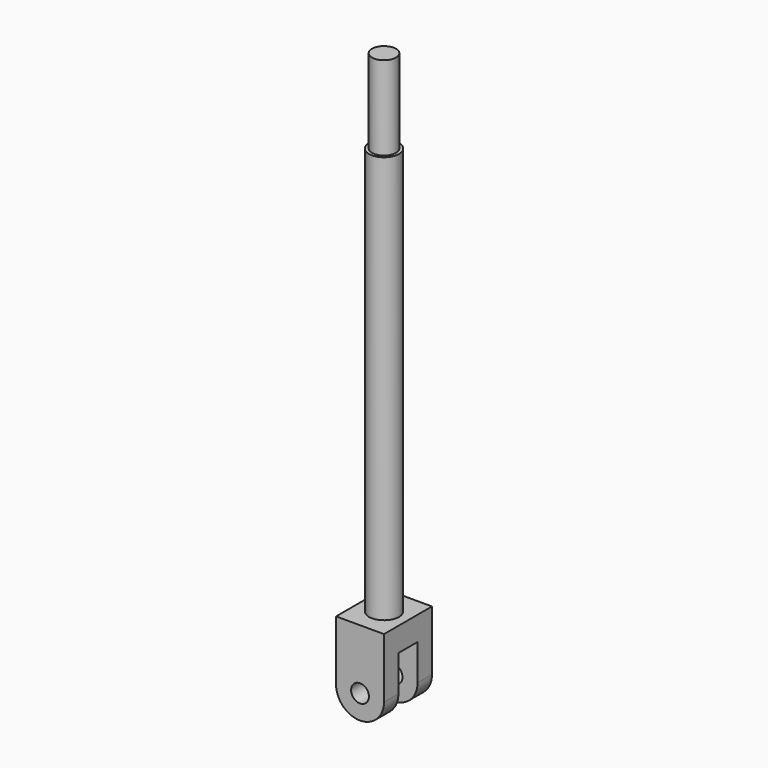
from build123d import *

# Parameters (mm, degrees)
F0_R     = 3.96875
F1_DEPTH = 107.95
F2_R     = 3.175
F3_DEPTH = 22.225
F4_R     = 2.361553
F5_DEPTH = 7.9375
F7_DEPTH = 3.175


with BuildPart() as f1:
    # F0 (on Top) → F1 (new body)
    with BuildSketch(Plane.XY):
        Circle(F0_R)
    extrude(amount=F1_DEPTH)

    # F2 (on face) → F3 (join)
    with BuildSketch(Plane.XY.offset(107.95)):
        Circle(F2_R)
    extrude(amount=F3_DEPTH)

    # F4 (on Front) → F5 (join, symmetric)
    with BuildSketch(Plane.XZ):
        with BuildLine():
            Line((3.96875, 0), (-3.96875, 0))
            Line((-3.96875, 0), (-6.35, 0))
            Line((-6.35, 0), (-6.35, -15.875))
            ThreePointArc((-6.35, -15.875), (0, -22.225), (6.35, -15.875))
            Line((6.35, -15.875), (6.35, 0))
            Line((6.35, 0), (3.96875, 0))
        make_face()
        with Locations((0, -15.875)):
            Circle(F4_R, mode=Mode.SUBTRACT)
    extrude(amount=F5_DEPTH, both=True)

    # F6 (on Front) → F7 (cut, symmetric)
    with BuildSketch(Plane.XZ):
        with BuildLine():
            Line((6.35, -15.875), (6.35, -6.35))
            Line((6.35, -6.35), (-6.35, -6.35))
            Line((-6.35, -6.35), (-6.35, -15.875))
            ThreePointArc((-6.35, -15.875), (0, -22.225), (6.35, -15.875))
        make_face()
    extrude(amount=F7_DEPTH, both=True, mode=Mode.SUBTRACT)


solid = f1.part
